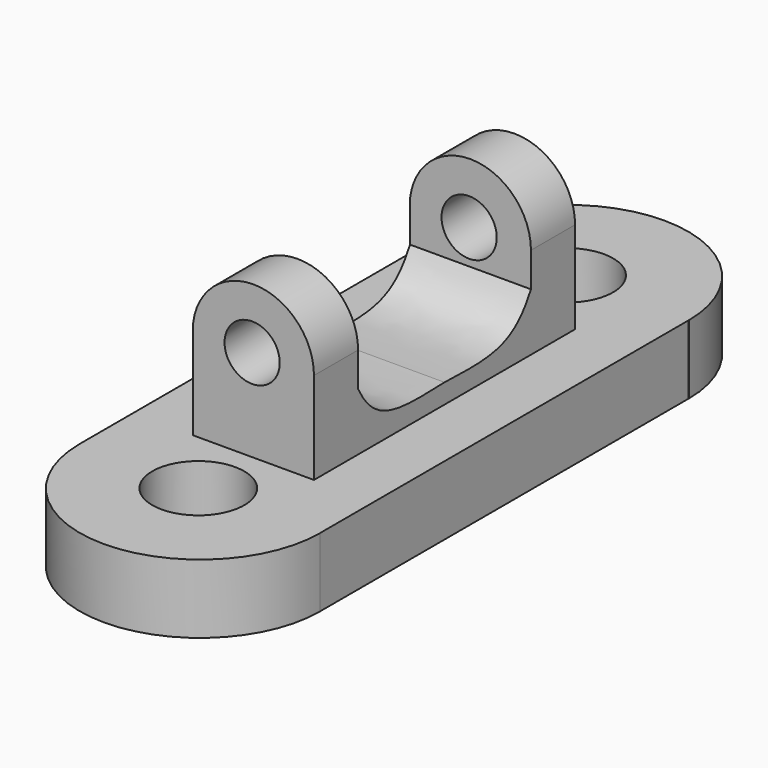
from build123d import *

# Parameters (mm, degrees)
F0_W     = 52.3490961641
F0_H     = 100.1019440591
F1_DEPTH = 15
F2_W     = 26.3490961641
F2_H     = 12
F3_DEPTH = 20
F5_DEPTH = 12
F7_DEPTH = 26.3
F10_D    = 12
F12_D    = 20


with BuildPart() as f1:
    # F0 (on Top) → F1 (new body)
    with BuildSketch(Plane.XY):
        with BuildLine():
            Line((26.4400355518, 50.134152174), (26.4692548662, 50.134152174))
            ThreePointArc((26.4692548662, 50.134152174), (0.280097127, 76.1836339389), (-25.9090606123, 50.134152174))
            Line((-25.9090606123, 50.134152174), (26.4400355518, 50.134152174))
        make_face()
        with Locations((0.2654874697, 0.0831801444)):
            Rectangle(F0_W, F0_H)
        with BuildLine():
            Line((26.4400355518, -49.9677918851), (-25.9090606123, -49.9677918851))
            ThreePointArc((-25.9090606123, -49.9677918851), (0.2654874697, -76.1423399672), (26.4400355518, -49.9677918851))
        make_face()
    extrude(amount=-F1_DEPTH)

    # F2 (on Top) → F3 (join)
    with BuildSketch(Plane.XY):
        with Locations((0.2654874697, -29.4927601161)):
            Rectangle(F2_W, F2_H)
    extrude(amount=F3_DEPTH)

    # F4 (on face) → F5 (join)
    with BuildSketch(Plane.XZ.offset(35.4927601161)):
        with BuildLine():
            Line((-12.9090606123, 20), (13.4400355518, 20))
            ThreePointArc((13.4400355518, 20), (0.2654874697, 33.1745480821), (-12.9090606123, 20))
        make_face()
    extrude(amount=-F5_DEPTH)

    # F6 (on face) → F7 (join)
    with BuildSketch(Plane.YZ.offset(13.4400355518)):
        with BuildLine():
            add(Edge.make_bspline(
                [(-23.4927601161, 12.5284092501), (-21.2797119115, 8.3236057962), (-15.6986097687, 3.625344109), (-5.9415775516, 4.0916807862), (0, 4.2679198086)],
                knots=[0, 0, 0, 0, 0.4600140191, 1, 1, 1, 1], degree=3))
            Line((-23.4927601161, 12.5284092501), (-23.4927601161, 0))
            Line((-23.4927601161, 0), (0, 0))
            Line((0, 0), (0, 4.2679198086))
        make_face()
    extrude(amount=-F7_DEPTH)

    # F8: F1 across plane


with BuildPart() as f1_1:
    add(f1.part)
    add(f1.part.mirror(Plane.XZ))

    # F10 (through all)
    with Locations(Plane.XZ.offset(35.4927601161)):
        with Locations((0, 20)):
            Hole(F10_D / 2)

    # F12 (through all)
    with Locations(Plane.XY):
        with Locations((0, 50.134152174), (0, -50.134152174)):
            Hole(F12_D / 2)


solid = f1_1.part
